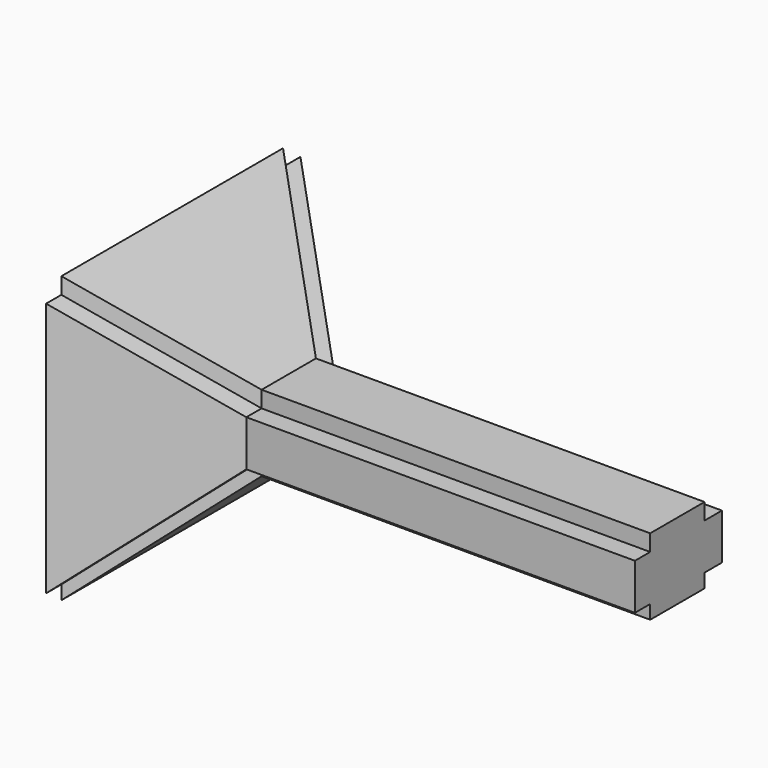
from build123d import *

# Parameters (mm, degrees)
F0_W     = 8.736010408
F0_H     = 2.1122291218
F0_H_2   = 1.7872701865
F0_W_2   = 2.455455251
F0_H_3   = 5.8963275515
F0_W_3   = 2.8000103775
F1_DEPTH = 50
F2_DEPTH = 15
F2_TAPER = -41.9


with BuildPart() as f1:
    # F0 (on Right) → F1 (new body)
    with BuildSketch(Plane.YZ):
        with Locations((-0.0861387816, 3.9230386028)):
            Rectangle(F0_W, F0_H)
        with Locations((-0.0861387816, -3.9230386028)):
            Rectangle(F0_W, F0_H_2)
        with Locations((-5.6818716112, -0.0812397338)):
            Rectangle(F0_W_2, F0_H_3)
        with Locations((5.6818716112, -0.0812397338)):
            Rectangle(F0_W_3, F0_H_3)
        with Locations((-0.0861387816, -0.0812397338)):
            Rectangle(F0_W, F0_H_3)
    extrude(amount=F1_DEPTH)

    # F1_face (on face) → F2 (join)
    with BuildSketch(Plane(origin=(0, 0.0357904821, 0.0380455387), x_dir=(0, 1, 0), z_dir=(-1, 0, 0))):
        Polygon((-4.4899344677, -4.941107625), (4.2460759403, -4.941107625), (4.2460759403, -2.8288785031), (7.0460863178, -2.8288785031), (7.0460863178, 3.0674490483), (4.2460759403, 3.0674490483), (4.2460759403, 4.8547192348), (-4.4899344677, 4.8547192348), (-4.4899344677, 3.0674490483), (-6.9453897188, 3.0674490483), (-6.9453897188, -2.8288785031), (-4.4899344677, -2.8288785031), align=None)
    extrude(amount=F2_DEPTH, taper=F2_TAPER)


solid = f1.part
